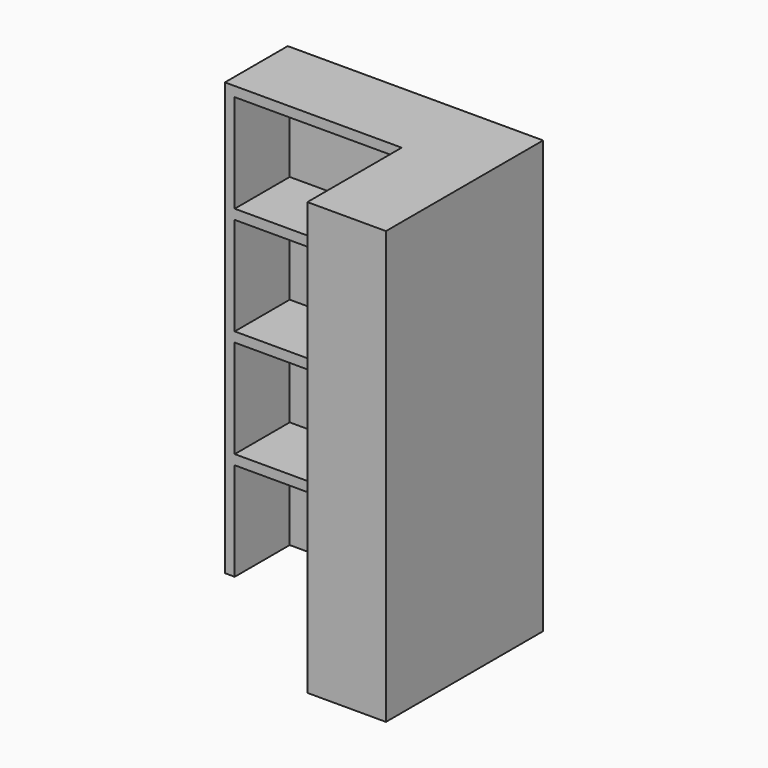
from build123d import *

# Parameters (mm, degrees)
BOX3529_W        = 1200
BOX3529_H        = 900
BOX3529_DEPTH    = 500
ARRAY281_Z_COUNT = 4
ARRAY281_Z_PITCH = 550
BOX3527_W        = 400
BOX3527_H        = 600
BOX3527_DEPTH    = 2200
BOX3528_W        = 1300
BOX3528_H        = 400
BOX3528_DEPTH    = 2200


with BuildPart() as array281:
    # Box3529 → Box3529 (new body)
    with BuildSketch(Plane(origin=(8850, 1350, 0), x_dir=(-1, 0, 0), z_dir=(0, 0, 1))):
        with Locations((600, 450)):
            Rectangle(BOX3529_W, BOX3529_H)
    extrude(amount=BOX3529_DEPTH)

    # Array281 Z: Array281 ×4


with BuildPart() as array281_1:
    add(array281.part)
    with Locations(*[(0, 0, i * ARRAY281_Z_PITCH) for i in range(1, ARRAY281_Z_COUNT)]):
        add(array281.part)


with BuildPart() as box3527:
    # Box3527 → Box3527 (new body)
    with BuildSketch(Plane(origin=(8900, 1000, 0), x_dir=(-1, 0, 0), z_dir=(0, 0, 1))):
        with Locations((200, 300)):
            Rectangle(BOX3527_W, BOX3527_H)
    extrude(amount=BOX3527_DEPTH)


with BuildPart() as cut003:
    # Box3528 → Box3528 (new body)
    with BuildSketch(Plane(origin=(8900, 1400, 0), x_dir=(-1, 0, 0), z_dir=(0, 0, 1))):
        with Locations((650, 200)):
            Rectangle(BOX3528_W, BOX3528_H)
    extrude(amount=BOX3528_DEPTH)

    # Fusion015: union Box3527
    add(box3527.part)

    # Cut003: cut Array281
    add(array281_1.part, mode=Mode.SUBTRACT)


solid = cut003.part
